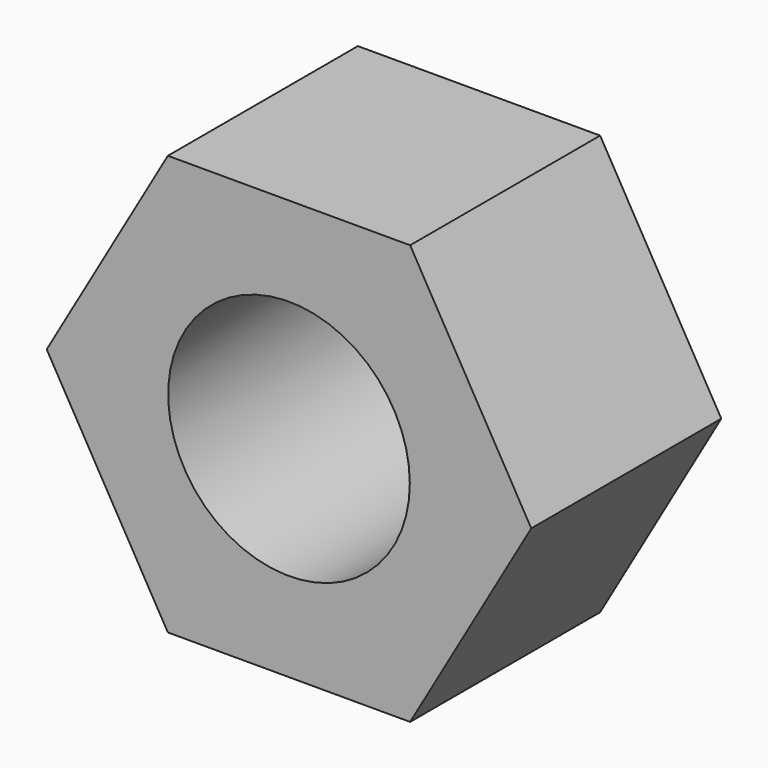
from build123d import *

# Parameters (mm, degrees)
F1_DEPTH = 15
F2_R     = 7.63
F3_DEPTH = 15.001


with BuildPart() as f1:
    # F0 (on Front) → F1 (new body)
    with BuildSketch(Plane.XZ):
        Polygon((7.649891, 13.25), (-7.649891, 13.25), (-15.299782, 0), (-7.649891, -13.25), (7.649891, -13.25), (15.299782, 0), align=None)
    extrude(amount=F1_DEPTH)

    # F2 (on face) → F3 (cut, through all)
    with BuildSketch(Plane.XZ.offset(15)):
        Circle(F2_R)
    extrude(amount=-F3_DEPTH, mode=Mode.SUBTRACT)


solid = f1.part
